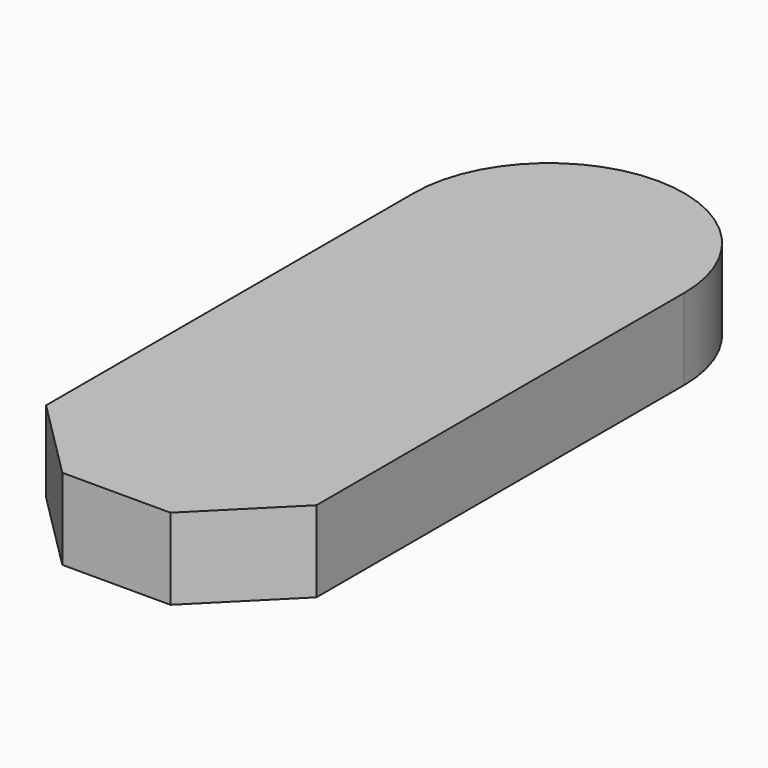
from build123d import *

# Parameters (mm, degrees)
F1_DEPTH = 9


with BuildPart() as f1:
    # F0 (on Top) → F1 (new body)
    with BuildSketch(Plane.XY):
        with BuildLine():
            Line((15, -51), (15, 0))
            ThreePointArc((15, 0), (0, 15), (-15, 0))
            Line((-15, 0), (-15, -51))
            Line((-15, -51), (-6, -60))
            Line((-6, -60), (6, -60))
            Line((6, -60), (15, -51))
        make_face()
    extrude(amount=F1_DEPTH)


solid = f1.part
